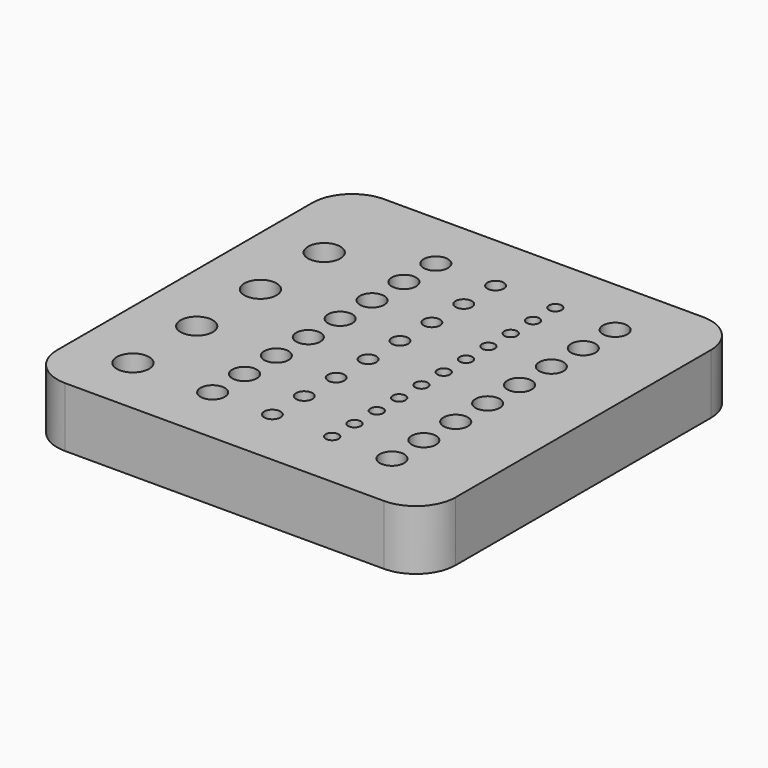
from build123d import *

# Parameters (mm, degrees)
SKETCH_W      = 100
SKETCH_H      = 100
PAD_DEPTH     = 15
FILLET_R      = 10
FILLET001_R   = 10
FILLET002_R   = 10
FILLET003_R   = 10
SKETCH001_R   = 4.05
SKETCH001_R_2 = 3.05
SKETCH001_R_3 = 2.05
SKETCH001_R_4 = 1.6
POCKET_DEPTH  = 6


with BuildPart() as part:
    # Sketch → Pad (new body)
    with BuildSketch(Plane.XY):
        with Locations((50, 50)):
            Rectangle(SKETCH_W, SKETCH_H)
    extrude(amount=PAD_DEPTH)

    # Fillet
    fillet_edges = [part.edges().sort_by_distance(p)[0] for p in [
        (0, 0, 7.5),
    ]]
    fillet(fillet_edges, radius=FILLET_R)

    # Fillet001
    fillet001_edges = [part.edges().sort_by_distance(p)[0] for p in [
        (100, 0, 7.5),
    ]]
    fillet(fillet001_edges, radius=FILLET001_R)

    # Fillet002
    fillet002_edges = [part.edges().sort_by_distance(p)[0] for p in [
        (100, 100, 7.5),
    ]]
    fillet(fillet002_edges, radius=FILLET002_R)

    # Fillet003
    fillet003_edges = [part.edges().sort_by_distance(p)[0] for p in [
        (0, 100, 7.5),
    ]]
    fillet(fillet003_edges, radius=FILLET003_R)

    # Sketch001 (on Face6 of Pad) → Pocket (cut)
    with BuildSketch(Plane.XY.offset(15)):
        with Locations((15, 15)):
            Circle(SKETCH001_R)
        with Locations((15, 35)):
            Circle(SKETCH001_R)
        with Locations((15, 55)):
            Circle(SKETCH001_R)
        with Locations((15, 75)):
            Circle(SKETCH001_R)
        with Locations((35, 15)):
            Circle(SKETCH001_R_2)
        with Locations((35, 25)):
            Circle(SKETCH001_R_2)
        with Locations((35, 35)):
            Circle(SKETCH001_R_2)
        with Locations((35, 45)):
            Circle(SKETCH001_R_2)
        with Locations((35, 55)):
            Circle(SKETCH001_R_2)
        with Locations((35, 65)):
            Circle(SKETCH001_R_2)
        with Locations((35, 75)):
            Circle(SKETCH001_R_2)
        with Locations((35, 85)):
            Circle(SKETCH001_R_2)
        with Locations((50, 15)):
            Circle(SKETCH001_R_3)
        with Locations((50, 25)):
            Circle(SKETCH001_R_3)
        with Locations((50, 35)):
            Circle(SKETCH001_R_3)
        with Locations((50, 45)):
            Circle(SKETCH001_R_3)
        with Locations((50, 55)):
            Circle(SKETCH001_R_3)
        with Locations((50, 65)):
            Circle(SKETCH001_R_3)
        with Locations((50, 75)):
            Circle(SKETCH001_R_3)
        with Locations((50, 85)):
            Circle(SKETCH001_R_3)
        with Locations((65, 15)):
            Circle(SKETCH001_R_4)
        with Locations((65, 22)):
            Circle(SKETCH001_R_4)
        with Locations((65, 29)):
            Circle(SKETCH001_R_4)
        with Locations((65, 36)):
            Circle(SKETCH001_R_4)
        with Locations((65, 43)):
            Circle(SKETCH001_R_4)
        with Locations((65, 50)):
            Circle(SKETCH001_R_4)
        with Locations((65, 57)):
            Circle(SKETCH001_R_4)
        with Locations((65, 64)):
            Circle(SKETCH001_R_4)
        with Locations((65, 71)):
            Circle(SKETCH001_R_4)
        with Locations((65, 78)):
            Circle(SKETCH001_R_4)
        with Locations((65, 85)):
            Circle(SKETCH001_R_4)
        with Locations((80, 15)):
            Circle(SKETCH001_R_2)
        with Locations((80, 25)):
            Circle(SKETCH001_R_2)
        with Locations((80, 35)):
            Circle(SKETCH001_R_2)
        with Locations((80, 45)):
            Circle(SKETCH001_R_2)
        with Locations((80, 55)):
            Circle(SKETCH001_R_2)
        with Locations((80, 65)):
            Circle(SKETCH001_R_2)
        with Locations((80, 75)):
            Circle(SKETCH001_R_2)
        with Locations((80, 85)):
            Circle(SKETCH001_R_2)
    extrude(amount=-POCKET_DEPTH, mode=Mode.SUBTRACT)


solid = part.part
